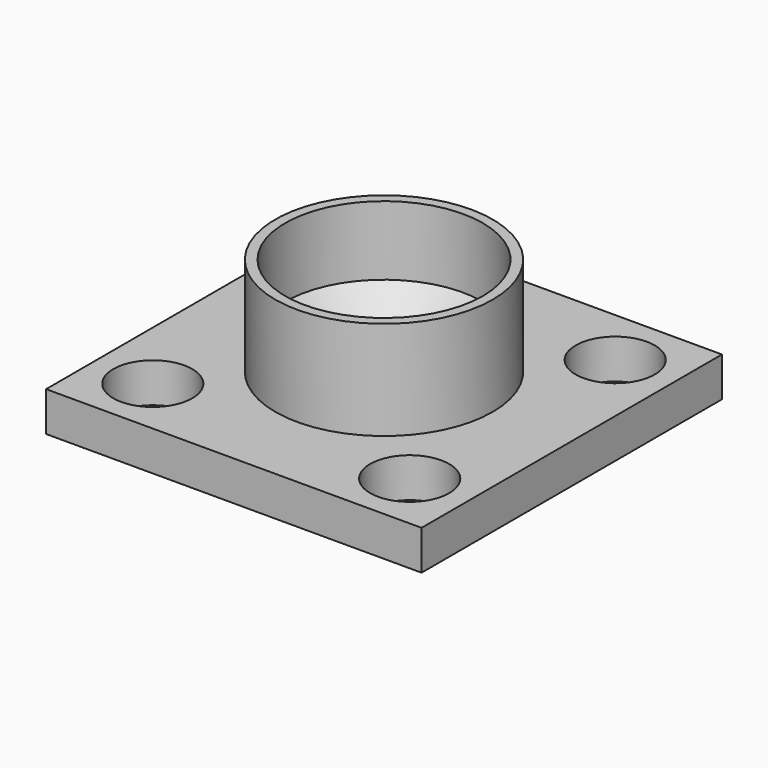
from build123d import *

# Parameters (mm, degrees)
SKETCH012_W             = 1.6
SKETCH012_H             = 8.3
EXTRUDE011_DEPTH        = 1.6
SKETCH008_R             = 4
EXTRUDE007_DEPTH        = 4
BODY004_PLACEMENT_ANGLE = 180


with BuildPart() as extrude011:
    # Sketch012 → Extrude011 (new body)
    with BuildSketch(Plane.XY.offset(5)):
        with Locations((14, 4.15)):
            Rectangle(SKETCH012_W, SKETCH012_H)
        with Locations((18, 4.15)):
            Rectangle(SKETCH012_W, SKETCH012_H)
        with Locations((-10, 4.15)):
            Rectangle(SKETCH012_W, SKETCH012_H)
        with Locations((-14, 4.15)):
            Rectangle(SKETCH012_W, SKETCH012_H)
    extrude(amount=-EXTRUDE011_DEPTH)


with BuildPart() as extrude011_1:
    # Extrude011 placement: moved
    add(extrude011.part.moved(Location((0, 0, -1))))


with BuildPart() as cut:
    # Sketch008 → Extrude007 (new body)
    with BuildSketch(Plane.XY):
        with BuildLine():
            ThreePointArc((3.3, 0), (0, 3.3), (-3.3, 0))
            Line((-3.3, 0), (-19, 0))
            Line((-19, 0), (-19, 19))
            Line((-19, 19), (19, 19))
            Line((19, 19), (19, 0))
            Line((3.3, 0), (19, 0))
        make_face()
        with Locations((-13, 13)):
            Circle(SKETCH008_R, mode=Mode.SUBTRACT)
        with Locations((13, 13)):
            Circle(SKETCH008_R, mode=Mode.SUBTRACT)
    extrude(amount=EXTRUDE007_DEPTH)

    # Cut: cut Extrude011
    add(extrude011_1.part, mode=Mode.SUBTRACT)


with BuildPart() as revolve001:
    # Sketch014 → Revolve001 (revolve)
    with BuildSketch(Plane.XZ):
        Polygon((-11, 0), (-11, -10), (-10, -10), (-10, -3), (-7, 0), align=None)
    revolve(axis=Axis((0, 0, 0), (0, 0, 1)))


with BuildPart() as body:
    # Body base: copy of Cut
    add(cut.part)


with BuildPart() as body004:
    # Part__Mirroring: instance of Body
    add(body.part.mirror(Plane(origin=(0, 0, 0), x_dir=(1, 0, 0), z_dir=(0, 1, 0))))

    # Fusion004: union Cut, Revolve001
    add(cut.part)
    add(revolve001.part)


with BuildPart() as body004_1:
    # Body004 placement: moved
    add(body004.part.moved(Location((0, 0, -42))).rotate(Axis((0, 0, -42), (0, 1, 0)), BODY004_PLACEMENT_ANGLE))


solid = body004_1.part
